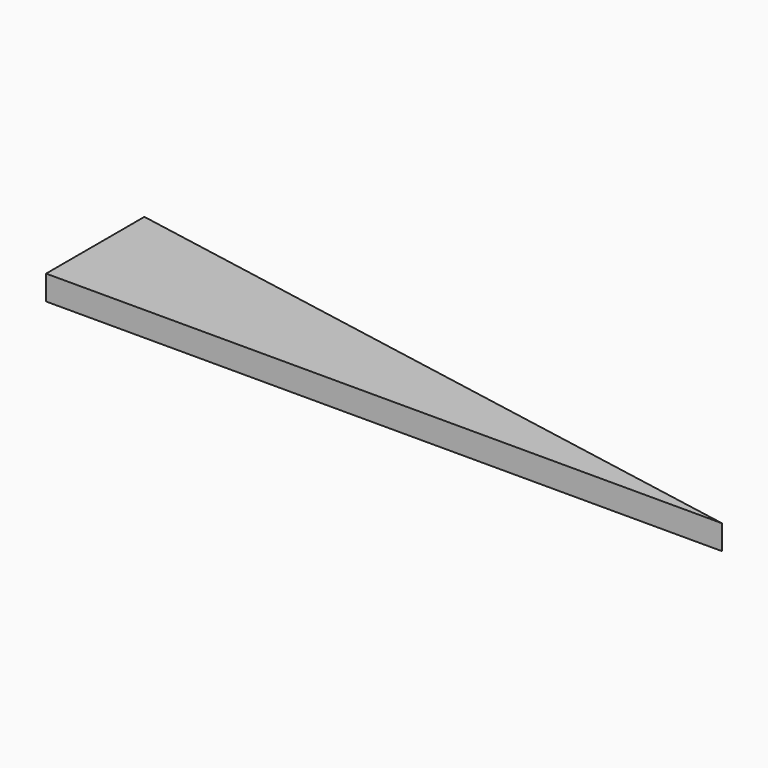
from build123d import *

# Parameters (mm, degrees)
PAD_DEPTH = 2


with BuildPart() as part:
    # Sketch → Pad (new body)
    with BuildSketch(Plane.XY):
        Polygon((0, 0), (55, 0), (0, 10), align=None)
    extrude(amount=PAD_DEPTH)


solid = part.part
